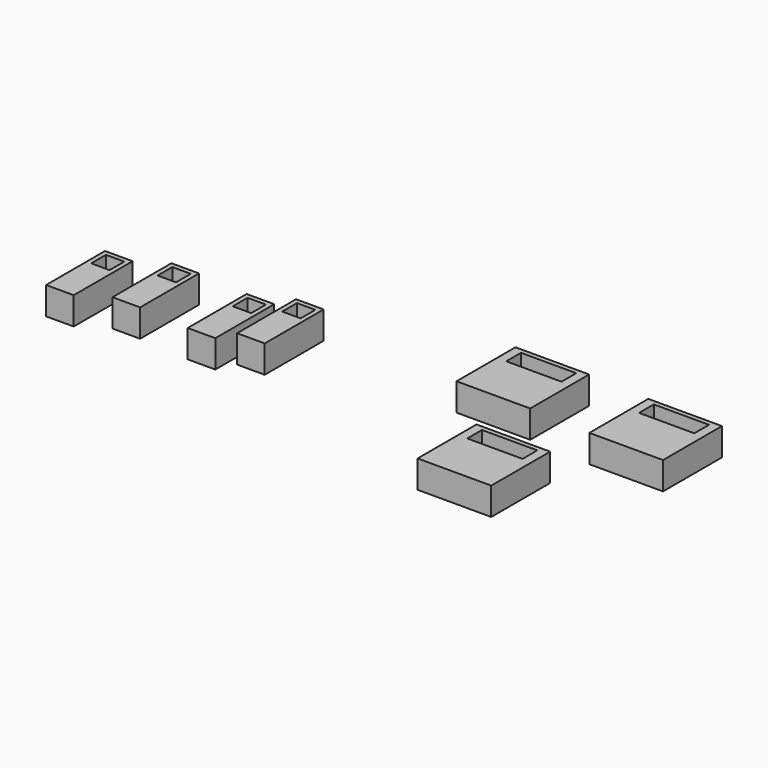
from build123d import *

# Parameters (mm, degrees)
F0_W      = 15
F0_H      = 40
F1_DEPTH  = 15
F2_W      = 10
F2_H      = 10
F3_W      = 10
F3_H      = 10
F4_W      = 10
F4_H      = 10
F5_W      = 10
F5_H      = 10
F6_DEPTH  = 10
F7_DEPTH  = 10
F8_DEPTH  = 10
F9_DEPTH  = 10
F10_W     = 40
F10_H     = 40
F11_DEPTH = 15
F12_W     = 30
F12_H     = 10
F13_DEPTH = 10
F14_DEPTH = 10
F15_DEPTH = 10


with BuildPart() as f1:
    # F0 (on Top) → F1 (new body)
    with BuildSketch(Plane.XY):
        with Locations((-53.787847, 7.063454)):
            Rectangle(F0_W, F0_H)
        with Locations((-24.784097, 15.900724)):
            Rectangle(F0_W, F0_H)
        with Locations((17.78272, 13.748469)):
            Rectangle(F0_W, F0_H)
        with Locations((37.153013, 23.074906)):
            Rectangle(F0_W, F0_H)
    extrude(amount=F1_DEPTH)

    # F2 (on face) + F3 (on face) + F4 (on face) + F5 (on face) → F6 (cut)
    with BuildSketch(Plane.XY.offset(15)):
        with Locations((-53.787847, 19.563454)):
            Rectangle(F2_W, F2_H)
    with BuildSketch(Plane.XY.offset(15)):
        with Locations((-24.784097, 28.400724)):
            Rectangle(F3_W, F3_H)
    with BuildSketch(Plane.XY.offset(15)):
        with Locations((17.78272, 26.248469)):
            Rectangle(F4_W, F4_H)
    with BuildSketch(Plane.XY.offset(15)):
        with Locations((37.153013, 35.574906)):
            Rectangle(F5_W, F5_H)
    extrude(amount=-F6_DEPTH, mode=Mode.SUBTRACT)

    # F3 (on face) → F7 (cut)
    with BuildSketch(Plane.XY.offset(15)):
        with Locations((-24.784097, 28.400724)):
            Rectangle(F3_W, F3_H)
    extrude(amount=-F7_DEPTH, mode=Mode.SUBTRACT)

    # F4 (on face) → F8 (cut)
    with BuildSketch(Plane.XY.offset(15)):
        with Locations((17.78272, 26.248469)):
            Rectangle(F4_W, F4_H)
    extrude(amount=-F8_DEPTH, mode=Mode.SUBTRACT)

    # F5 (on face) → F9 (cut)
    with BuildSketch(Plane.XY.offset(15)):
        with Locations((37.153013, 35.574906)):
            Rectangle(F5_W, F5_H)
    extrude(amount=-F9_DEPTH, mode=Mode.SUBTRACT)


with BuildPart() as f11:
    # F10 (on Top) → F11 (new body)
    with BuildSketch(Plane.XY):
        with Locations((149.896219, 46.772019)):
            Rectangle(F10_W, F10_H)
        with Locations((223.493338, 44.944856)):
            Rectangle(F10_W, F10_H)
        with Locations((181.273296, -18.903233)):
            Rectangle(F10_W, F10_H)
    extrude(amount=F11_DEPTH)

    # F12 (on face) → F13 (cut)
    with BuildSketch(Plane.XY.offset(15)):
        with Locations((149.896219, 59.272019)):
            Rectangle(F12_W, F12_H)
    extrude(amount=-F13_DEPTH, mode=Mode.SUBTRACT)

    # F12 (on face) → F14 (cut)
    with BuildSketch(Plane.XY.offset(15)):
        with Locations((223.493338, 57.444856)):
            Rectangle(F12_W, F12_H)
    extrude(amount=-F14_DEPTH, mode=Mode.SUBTRACT)

    # F12 (on face) → F15 (cut)
    with BuildSketch(Plane.XY.offset(15)):
        with Locations((181.273296, -6.403233)):
            Rectangle(F12_W, F12_H)
    extrude(amount=-F15_DEPTH, mode=Mode.SUBTRACT)


solid = Compound([f1.part, f11.part])
